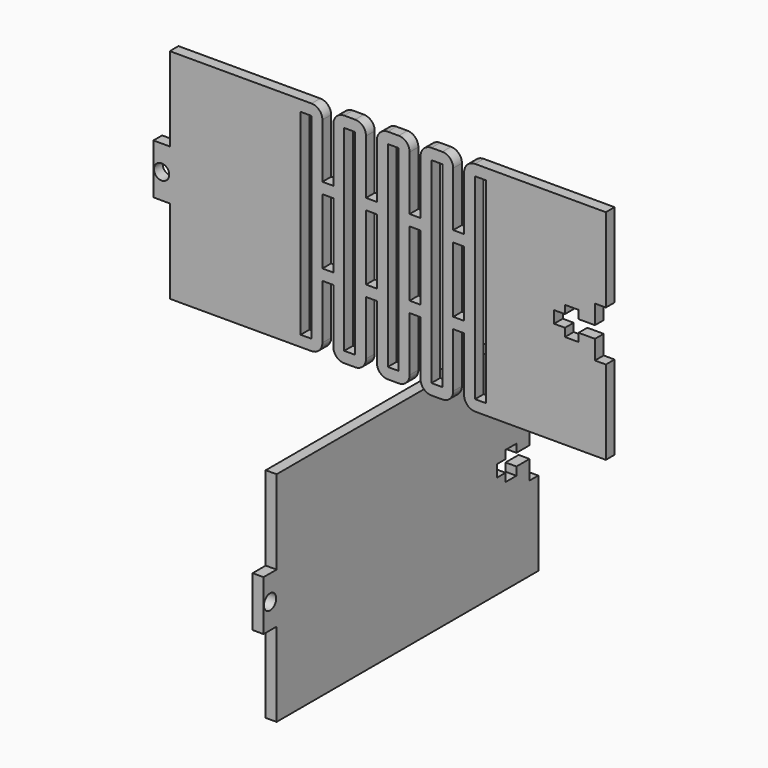
from build123d import *

# Parameters (mm, degrees)
F0_W     = 2
F0_H     = 36
F0_H_2   = 12
F1_DEPTH = 2
F2_W     = 3
F2_H     = 9.2
F2_R     = 1.4
F3_DEPTH = 2
F0_R     = 1.4
F4_DEPTH = 2
F5_R     = 2


with BuildPart() as f1:
    # F0 (on Front) → F1 (new body)
    with BuildSketch(Plane.XZ):
        Polygon((-11.999999, 63.3), (-39.999999, 63.3), (-39.999999, 47.9), (-39.999999, 44.8), (-39.999999, 41.8), (-39.999999, 38.7), (-39.999999, 23.3), (-11.999999, 23.3), (-11.999999, 35.3), (-9.999999, 35.3), (-9.999999, 23.3), (-3.999999, 23.3), (-3.999999, 35.3), (-1.999999, 35.3), (-1.999999, 23.3), (4.000001, 23.3), (4.000001, 35.3), (6.000001, 35.3), (6.000001, 23.3), (12.000001, 23.3), (12.000001, 35.3), (14.000001, 35.3), (14.000001, 23.3), (40.000001, 23.3), (40.000001, 38.7), (38.000001, 38.7), (38.000001, 42.2), (35.000001, 42.2), (35.000001, 40.7), (32.500001, 40.7), (32.500001, 42.2), (30.500001, 42.2), (30.500001, 43.3), (30.500001, 44.4), (32.500001, 44.4), (32.500001, 45.9), (35.000001, 45.9), (35.000001, 44.4), (38.000001, 44.4), (38.000001, 47.9), (40.000001, 47.9), (40.000001, 63.3), (14.000001, 63.3), (14.000001, 51.3), (12.000001, 51.3), (12.000001, 63.3), (6.000001, 63.3), (6.000001, 51.3), (4.000001, 51.3), (4.000001, 63.3), (-1.999999, 63.3), (-1.999999, 51.3), (-3.999999, 51.3), (-3.999999, 63.3), (-9.999999, 63.3), (-9.999999, 51.3), (-11.999999, 51.3), align=None)
        with Locations((-14.999999, 43.3)):
            Rectangle(F0_W, F0_H, mode=Mode.SUBTRACT)
        with Locations((-10.999999, 43.3)):
            Rectangle(F0_W, F0_H_2, mode=Mode.SUBTRACT)
        with Locations((-6.999999, 43.3)):
            Rectangle(F0_W, F0_H, mode=Mode.SUBTRACT)
        with Locations((-2.999999, 43.3)):
            Rectangle(F0_W, F0_H_2, mode=Mode.SUBTRACT)
        with Locations((1.000001, 43.3)):
            Rectangle(F0_W, F0_H, mode=Mode.SUBTRACT)
        with Locations((5.000001, 43.3)):
            Rectangle(F0_W, F0_H_2, mode=Mode.SUBTRACT)
        with Locations((9.000001, 43.3)):
            Rectangle(F0_W, F0_H, mode=Mode.SUBTRACT)
        with Locations((13.000001, 43.3)):
            Rectangle(F0_W, F0_H_2, mode=Mode.SUBTRACT)
        with Locations((17.000001, 43.3)):
            Rectangle(F0_W, F0_H, mode=Mode.SUBTRACT)
    extrude(amount=F1_DEPTH)

    # F0 (on Front) → F4 (join)
    with BuildSketch(Plane.XZ):
        Polygon((-39.999999, 44.8), (-39.999999, 47.9), (-42.999999, 47.9), (-42.999999, 38.7), (-39.999999, 38.7), (-39.999999, 41.8), align=None)
        with Locations((-41.499999, 43.3)):
            Circle(F0_R, mode=Mode.SUBTRACT)
        Polygon((-39.999999, 44.8), (-39.999999, 47.9), (-42.999999, 47.9), (-42.999999, 38.7), (-39.999999, 38.7), (-39.999999, 41.8), align=None)
        with Locations((-41.499999, 43.3)):
            Circle(F0_R, mode=Mode.SUBTRACT)
    extrude(amount=F4_DEPTH)

    # F5
    f5_edges = [f1.edges().sort_by_distance(p)[0] for p in [
        (-9.999999, -1, 23.3),
        (-3.999999, -1, 23.3),
        (-1.999999, -1, 23.3),
        (4.000001, -1, 23.3),
        (6.000001, -1, 23.3),
        (12.000001, -1, 23.3),
        (14.000001, -1, 23.3),
        (-11.999999, -1, 23.3),
        (-11.999999, -1, 63.3),
        (-9.999999, -1, 63.3),
        (-3.999999, -1, 63.3),
        (-1.999999, -1, 63.3),
        (4.000001, -1, 63.3),
        (6.000001, -1, 63.3),
        (12.000001, -1, 63.3),
        (14.000001, -1, 63.3),
    ]]
    fillet(f5_edges, radius=F5_R)


with BuildPart() as f3:
    # F2 (on Right) → F3 (new body)
    with BuildSketch(Plane.YZ):
        Polygon((-30, -20), (30, -20), (30, -4.6), (28, -4.6), (28, -1.1), (25, -1.1), (25, -2.6), (22.5, -2.6), (22.5, -1.1), (20.5, -1.1), (20.5, 1.1), (22.5, 1.1), (22.5, 2.6), (25, 2.6), (25, 1.1), (28, 1.1), (28, 4.6), (30, 4.6), (30, 20), (-30, 20), (-30, 4.6), (-30, -4.6), align=None)
        with Locations((-31.5, 0)):
            Rectangle(F2_W, F2_H)
        with Locations((-31.5, 0)):
            Circle(F2_R, mode=Mode.SUBTRACT)
        with Locations((-31.5, 0)):
            Rectangle(F2_W, F2_H)
        with Locations((-31.5, 0)):
            Circle(F2_R, mode=Mode.SUBTRACT)
    extrude(amount=F3_DEPTH)


solid = Compound([f1.part, f3.part])
